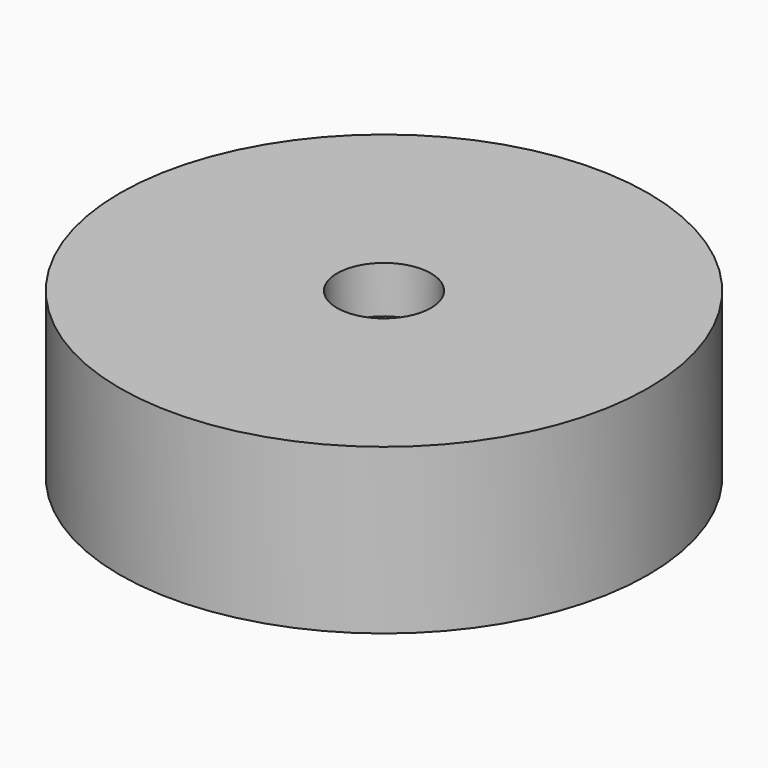
from build123d import *

# Parameters (mm, degrees)
F0_R     = 14.2875
F1_DEPTH = 2.54
F2_R     = 14.2875
F2_R_2   = 13.0175
F3_DEPTH = 6.35
F4_DEPTH = 6.35
F5_R     = 2.54
F6_DEPTH = 25.4


with BuildPart() as f1:
    # F0 (on Top) → F1 (new body)
    with BuildSketch(Plane.XY):
        Circle(F0_R)
    extrude(amount=F1_DEPTH)

    # F2 (on face) → F3 (join)
    with BuildSketch(Plane(origin=(0, 0, 0), x_dir=(1, 0, 0), z_dir=(0, 0, -1))):
        Circle(F2_R)
        Circle(F2_R_2, mode=Mode.SUBTRACT)
    extrude(amount=F3_DEPTH)

    # F2 (on face) → F4 (join, through all)
    with BuildSketch(Plane(origin=(0, 0, 0), x_dir=(1, 0, 0), z_dir=(0, 0, -1))):
        with BuildLine():
            Line((0, 10.7315), (0, 11.7475))
            ThreePointArc((0, 11.7475), (-5.87375, 10.173633), (-10.173633, 5.87375))
            Line((-10.173633, 5.87375), (-9.293752, 5.36575))
            ThreePointArc((-9.293752, 5.36575), (-5.36575, 9.293752), (0, 10.7315))
        make_face()
    extrude(amount=F4_DEPTH)

    # F5 (on face) → F6 (cut)
    with BuildSketch(Plane(origin=(0, 0, 0), x_dir=(1, 0, 0), z_dir=(0, 0, -1))):
        Circle(F5_R)
    extrude(amount=-F6_DEPTH, mode=Mode.SUBTRACT)


solid = f1.part
